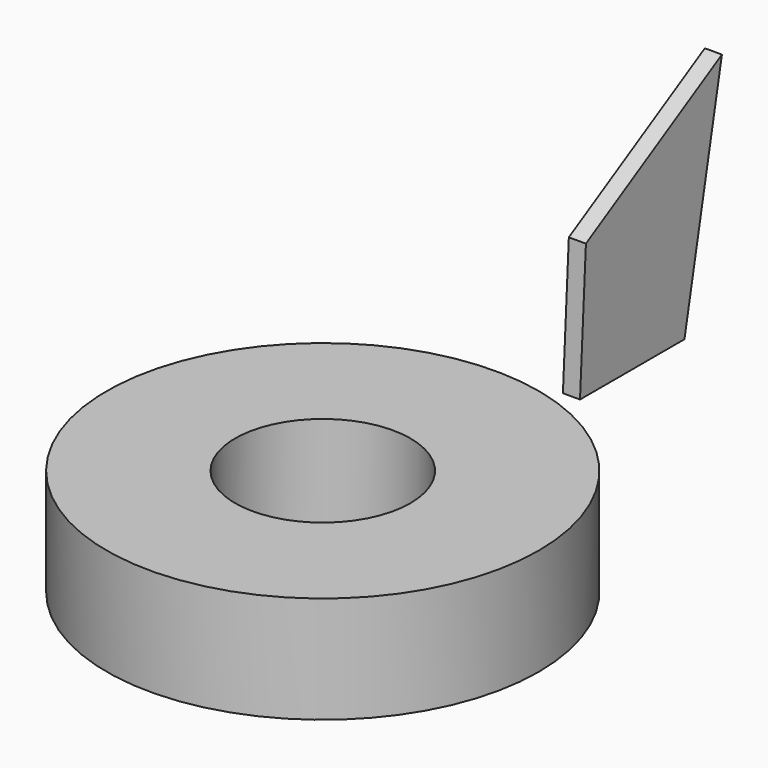
from build123d import *

# Parameters (mm, degrees)
F0_R     = 51.396613
F0_R_2   = 20.863034
F1_DEPTH = 25.4
F3_DEPTH = 4.064


with BuildPart() as f1:
    # F0 (on Top) → F1 (new body)
    with BuildSketch(Plane.XY):
        with Locations((-9.926907, -174.98289)):
            Circle(F0_R)
        with Locations((-9.926907, -174.98289)):
            Circle(F0_R_2, mode=Mode.SUBTRACT)
    extrude(amount=F1_DEPTH)


with BuildPart() as f3:
    # F2 (on Right) → F3 (new body)
    with BuildSketch(Plane.YZ):
        Polygon((-114.216924, 52.822903), (-115.975417, 20.876944), (-84.908701, 20.876944), (-73.771574, 75.976402), align=None)
    extrude(amount=F3_DEPTH)


solid = Compound([f1.part, f3.part])
